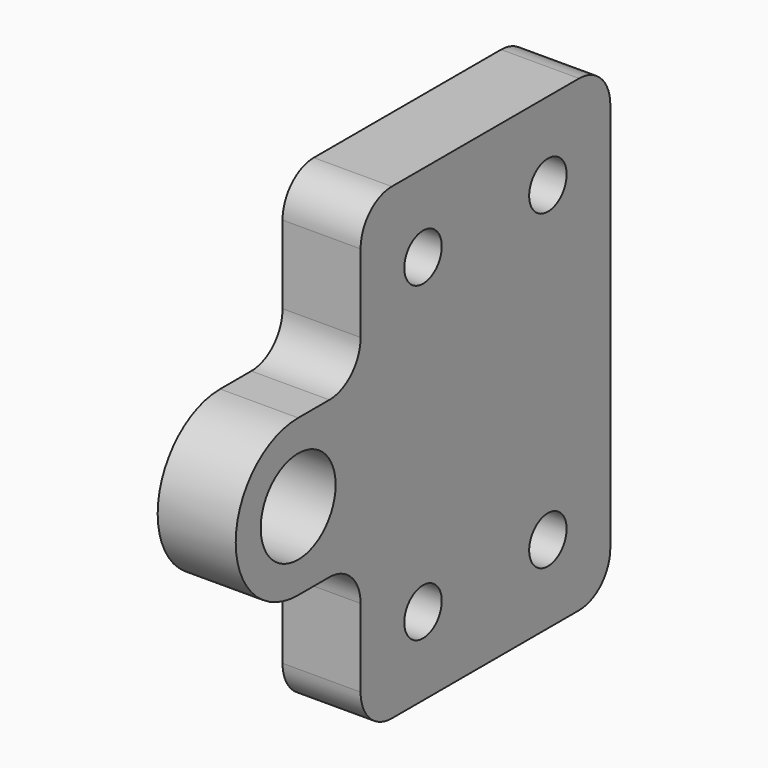
from build123d import *

# Parameters (mm, degrees)
F0_R     = 6
F1_DEPTH = 10
F2_R     = 5
F4_D     = 6
F5_D     = 6


with BuildPart() as f1:
    # F0 (on Right) → F1 (new body)
    with BuildSketch(Plane.YZ):
        with BuildLine():
            Line((20, -30), (20, 30))
            Line((20, 30), (-20, 30))
            Line((-20, 30), (-20, 10))
            Line((-20, 10), (-30, 10))
            ThreePointArc((-30, 10), (-40, 0), (-30, -10))
            Line((-30, -10), (-20, -10))
            Line((-20, -10), (-20, -30))
            Line((-20, -30), (20, -30))
        make_face()
        with Locations((-30, 0)):
            Circle(F0_R, mode=Mode.SUBTRACT)
    extrude(amount=F1_DEPTH)

    # F2
    f2_edges = [f1.edges().sort_by_distance(p)[0] for p in [
        (5, 20, 30),
        (5, 20, -30),
        (5, -20, 30),
        (5, -20, -30),
        (5, -20, -10),
        (5, -20, 10),
    ]]
    fillet(f2_edges, radius=F2_R)

    # F4 (through all)
    with Locations(Plane(origin=(0, 0, 0), x_dir=(0, -1, 0), z_dir=(-1, 0, 0))):
        with Locations((-10, -20), (10, -20)):
            Hole(F4_D / 2)

    # F5 (through all)
    with Locations(Plane(origin=(0, 0, 0), x_dir=(0, -1, 0), z_dir=(-1, 0, 0))):
        with Locations((10, 20), (-10, 20)):
            Hole(F5_D / 2)


solid = f1.part
